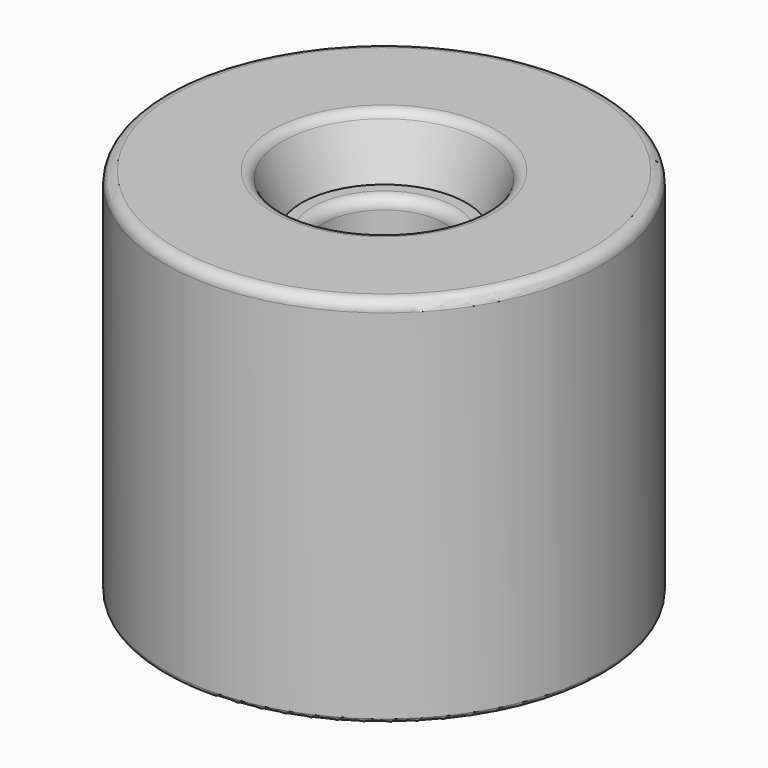
from build123d import *

# Parameters (mm, degrees)
CYLINDER_R        = 20
CYLINDER_DEPTH    = 34
CYLINDER001_R     = 5.5
CYLINDER001_DEPTH = 32
FILLET_R          = 1
FILLET001_R       = 0.4


with BuildPart() as part:
    # Cylinder → Cylinder (join)
    with BuildSketch(Plane.XY):
        Circle(CYLINDER_R)
    extrude(amount=CYLINDER_DEPTH)

    # Cylinder001 → Cylinder001 (cut)
    with BuildSketch(Plane(origin=(0, 0, 34), x_dir=(-1, 0, 0), z_dir=(0, 0, -1))):
        Circle(CYLINDER001_R)
    extrude(amount=CYLINDER001_DEPTH, mode=Mode.SUBTRACT)

    # Cone → Cone (revolve, cut)
    with BuildSketch(Plane(origin=(0, 0, 34), x_dir=(-1, 0, 0), z_dir=(0, -1, 0))):
        Polygon((0, 0), (9.5, 0), (7.5, 5), (0, 5), align=None)
    revolve(axis=Axis((0, 0, 34), (0, 0, -1)), mode=Mode.SUBTRACT)

    # Fillet
    fillet_edges = [part.edges().sort_by_distance(p)[0] for p in [
        (-20, 0, 34),
        (9.5, 0, 34),
        (5.5, 0, 29),
        (5.5, 0, 2),
    ]]
    fillet(fillet_edges, radius=FILLET_R)

    # Fillet001
    fillet001_edges = [part.edges().sort_by_distance(p)[0] for p in [
        (-20, 0, 0),
    ]]
    fillet(fillet001_edges, radius=FILLET001_R)


solid = part.part
